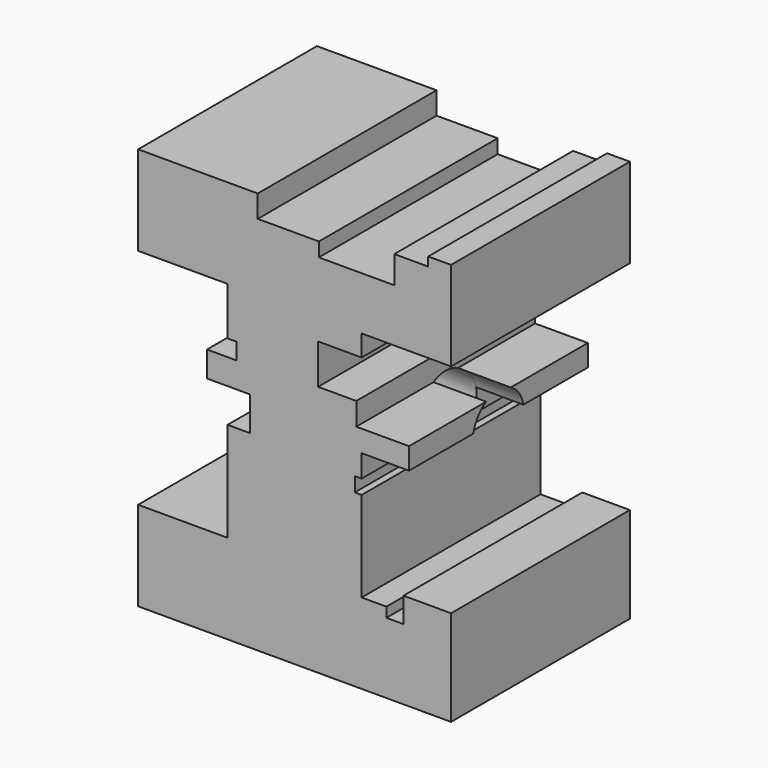
from build123d import *

# Parameters (mm, degrees)
F1_DEPTH  = 63.5
F2_R      = 9.0561828793
F3_DEPTH  = 63.501
F4_W      = 17.3674514517
F4_H      = 63.5
F5_DEPTH  = 6.35
F6_W      = 9.6430126578
F6_H      = 63.5
F7_DEPTH  = 2.54
F8_DEPTH  = 10.3378
F9_W      = 63.5
F9_H      = 4.6800179407
F10_DEPTH = 2.54
F11_DEPTH = 6.35
F12_DEPTH = 6.35
F13_DEPTH = 5.842
F14_W     = 63.5
F14_H     = 11.3577079028
F15_DEPTH = 12.3698
F16_DEPTH = 13.462
F17_DEPTH = 13.462
F18_DEPTH = 1.524
F19_DEPTH = 1.9558
F20_DEPTH = 1.9558
F21_W     = 4.8483535647
F21_H     = 63.5
F22_DEPTH = 5.334
F23_DEPTH = 1.778
F24_DEPTH = 2.54


with BuildPart() as f1:
    # F0 (on Front) → F1 (new body)
    with BuildSketch(Plane.XZ):
        Polygon((-43.0088681884, -29.9449780501), (-43.0088681884, -55.3449780501), (45.8911318116, -55.3449780501), (45.8911318116, -29.9449780501), (20.4911318116, -29.9449780501), (20.4911318116, 33.5550219499), (45.8911318116, 33.5550219499), (45.8911318116, 58.9550219499), (-43.0088681884, 58.9550219499), (-43.0088681884, 33.5550219499), (-17.6088681884, 33.5550219499), (-17.6088681884, -29.9449780501), align=None)
    extrude(amount=F1_DEPTH)

    # F2 (on face) → F3 (cut, through all)
    with BuildSketch(Plane.YZ.offset(20.4911318116)):
        with Locations((-31.75, 1.8050219499)):
            Circle(F2_R)
    extrude(amount=-F3_DEPTH, mode=Mode.SUBTRACT)

    # F4 (on face) → F5 (cut)
    with BuildSketch(Plane.XY.offset(58.9550219499)):
        with Locations((-0.3427523188, -31.75)):
            Rectangle(F4_W, F4_H)
    extrude(amount=-F5_DEPTH, mode=Mode.SUBTRACT)

    # F6 (on face) → F7 (cut)
    with BuildSketch(Plane.XY.offset(58.9550219499)):
        with Locations((34.5854004845, -31.75)):
            Rectangle(F6_W, F6_H)
    extrude(amount=-F7_DEPTH, mode=Mode.SUBTRACT)

    # F8 (cut): a face of the model
    f8_faces = [f1.faces().sort_by_distance(p)[0] for p in [
        (19.0524337813, -31.75, 58.9550219499),
    ]]
    extrude(f8_faces, amount=-F8_DEPTH, mode=Mode.SUBTRACT)

    # F9 (on face) → F10 (cut)
    with BuildSketch(Plane(origin=(-17.6088681884, 0, 0), x_dir=(0, -1, 0), z_dir=(-1, 0, 0))):
        with Locations((31.75, 17.5831750967)):
            Rectangle(F9_W, F9_H)
    extrude(amount=-F10_DEPTH, mode=Mode.SUBTRACT)

    # F9 (on face) → F11 (cut)
    with BuildSketch(Plane(origin=(-17.6088681884, 0, 0), x_dir=(0, -1, 0), z_dir=(-1, 0, 0))):
        with BuildLine():
            Line((63.5, -1.6929475823), (63.5, 7.987478748))
            Line((63.5, 7.987478748), (38.3675279587, 7.987478748))
            ThreePointArc((38.3675279587, 7.987478748), (40.1744878701, 5.128040528), (40.8061828793, 1.8050219499))
            ThreePointArc((40.8061828793, 1.8050219499), (40.6287392884, 0.021083332), (40.1033620474, -1.6929475823))
            Line((40.1033620474, -1.6929475823), (63.5, -1.6929475823))
        make_face()
    extrude(amount=-F11_DEPTH, mode=Mode.SUBTRACT)

    # F9 (on face) → F12 (cut)
    with BuildSketch(Plane(origin=(-17.6088681884, 0, 0), x_dir=(0, -1, 0), z_dir=(-1, 0, 0))):
        with BuildLine():
            Line((25.1324720413, 7.987478748), (0, 7.987478748))
            Line((0, 7.987478748), (0, -1.6929475823))
            Line((0, -1.6929475823), (23.3966379526, -1.6929475823))
            ThreePointArc((23.3966379526, -1.6929475823), (22.8359913407, 3.4034267691), (25.1324720413, 7.987478748))
        make_face()
    extrude(amount=-F12_DEPTH, mode=Mode.SUBTRACT)

    # F9 (on face) → F13 (join)
    with BuildSketch(Plane(origin=(-17.6088681884, 0, 0), x_dir=(0, -1, 0), z_dir=(-1, 0, 0))):
        with BuildLine():
            Line((63.5, 7.987478748), (63.5, 15.2431661263))
            Line((63.5, 15.2431661263), (0, 15.2431661263))
            Line((0, 15.2431661263), (0, 7.987478748))
            Line((0, 7.987478748), (25.1324720413, 7.987478748))
            ThreePointArc((25.1324720413, 7.987478748), (31.75, 10.8612048292), (38.3675279587, 7.987478748))
            Line((38.3675279587, 7.987478748), (63.5, 7.987478748))
        make_face()
    extrude(amount=F13_DEPTH)

    # F14 (on face) → F15 (cut)
    with BuildSketch(Plane.YZ.offset(20.4911318116)):
        with Locations((-31.75, 21.8542935327)):
            Rectangle(F14_W, F14_H)
    extrude(amount=-F15_DEPTH, mode=Mode.SUBTRACT)

    # F14 (on face) → F16 (join)
    with BuildSketch(Plane.YZ.offset(20.4911318116)):
        with BuildLine():
            Line((-36.1157784174, 9.7394045442), (-63.5, 9.7394045442))
            Line((-63.5, 9.7394045442), (-63.5, 3.6062416621))
            Line((-63.5, 3.6062416621), (-40.6252496242, 3.6062416621))
            ThreePointArc((-40.6252496242, 3.6062416621), (-39.0462406508, 7.1696580707), (-36.1157784174, 9.7394045442))
        make_face()
    extrude(amount=F16_DEPTH)

    # F14 (on face) → F17 (join)
    with BuildSketch(Plane.YZ.offset(20.4911318116)):
        with BuildLine():
            Line((0, 3.6062416621), (0, 9.7394045442))
            Line((0, 9.7394045442), (-27.3842215826, 9.7394045442))
            ThreePointArc((-27.3842215826, 9.7394045442), (-24.4537593492, 7.1696580707), (-22.8747503758, 3.6062416621))
            Line((-22.8747503758, 3.6062416621), (0, 3.6062416621))
        make_face()
    extrude(amount=F17_DEPTH)

    # F14 (on face) → F18 (cut)
    with BuildSketch(Plane.YZ.offset(20.4911318116)):
        with BuildLine():
            Line((0, 16.1754395813), (-63.5, 16.1754395813))
            Line((-63.5, 16.1754395813), (-63.5, 9.7394045442))
            Line((-63.5, 9.7394045442), (-36.1157784174, 9.7394045442))
            ThreePointArc((-36.1157784174, 9.7394045442), (-31.75, 10.8612048292), (-27.3842215826, 9.7394045442))
            Line((-27.3842215826, 9.7394045442), (0, 9.7394045442))
            Line((0, 9.7394045442), (0, 16.1754395813))
        make_face()
    extrude(amount=-F18_DEPTH, mode=Mode.SUBTRACT)

    # F14 (on face) → F19 (cut)
    with BuildSketch(Plane.YZ.offset(20.4911318116)):
        with BuildLine():
            Line((-39.574901363, -2.7540752199), (-63.5, -2.7540752199))
            Line((-63.5, -2.7540752199), (-63.5, -6.8428497761))
            Line((-63.5, -6.8428497761), (-34.4386358909, -6.8428497761))
            ThreePointArc((-34.4386358909, -6.8428497761), (-37.3903134435, -5.2802665131), (-39.574901363, -2.7540752199))
        make_face()
    extrude(amount=-F19_DEPTH, mode=Mode.SUBTRACT)

    # F14 (on face) → F20 (cut)
    with BuildSketch(Plane.YZ.offset(20.4911318116)):
        with BuildLine():
            Line((0, -6.8428497761), (0, -2.7540752199))
            Line((0, -2.7540752199), (-23.925098637, -2.7540752199))
            ThreePointArc((-23.925098637, -2.7540752199), (-26.1096865565, -5.2802665131), (-29.0613641091, -6.8428497761))
            Line((-29.0613641091, -6.8428497761), (0, -6.8428497761))
        make_face()
    extrude(amount=-F20_DEPTH, mode=Mode.SUBTRACT)

    # F21 (on face) → F22 (cut)
    with BuildSketch(Plane.XY.offset(-29.9449780501)):
        with Locations((29.9499258399, -31.75)):
            Rectangle(F21_W, F21_H)
    extrude(amount=-F22_DEPTH, mode=Mode.SUBTRACT)

    # F23 (add): a face of the model
    f23_faces = [f1.faces().sort_by_distance(p)[0] for p in [
        (39.1326172169, -31.75, -29.9449780501),
    ]]
    extrude(f23_faces, amount=F23_DEPTH)

    # F24 (cut): a face of the model
    f24_faces = [f1.faces().sort_by_distance(p)[0] for p in [
        (24.0084404346, -31.75, -29.9449780501),
    ]]
    extrude(f24_faces, amount=-F24_DEPTH, mode=Mode.SUBTRACT)


solid = f1.part
